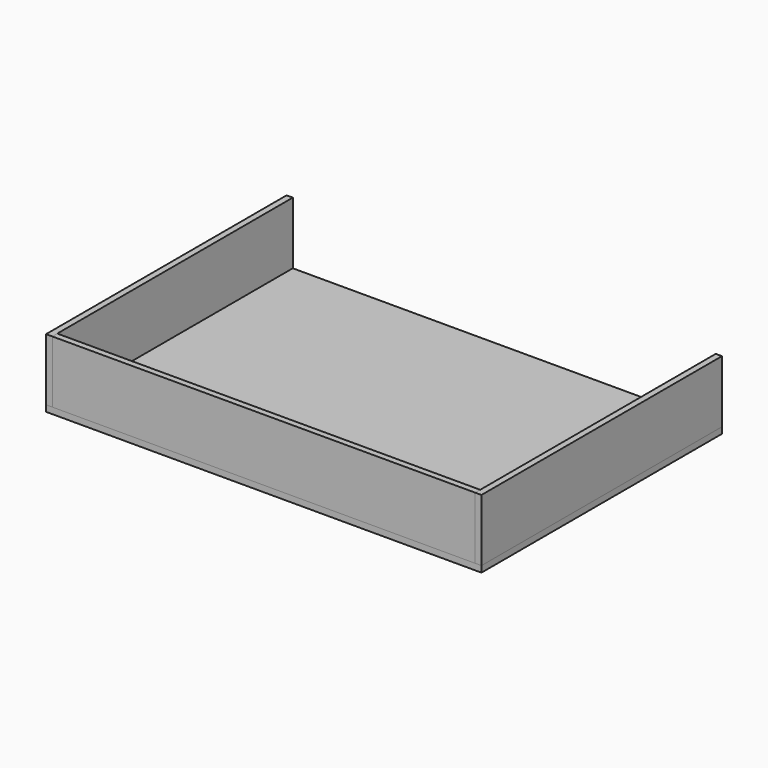
from build123d import *

# Parameters (mm, degrees)
F0_W     = 15
F0_H     = 710
F0_H_2   = 15
F3_DEPTH = 150
F0_W_2   = 1020
F1_DEPTH = 150
F2_DEPTH = 150
F4_DEPTH = 15


with BuildPart() as f3:
    # F0 (on Top) → F3 (new body)
    with BuildSketch(Plane.XY):
        with Locations((-517.5, 7.5)):
            Rectangle(F0_W, F0_H)
        with Locations((-517.5, -355)):
            Rectangle(F0_W, F0_H_2)
    extrude(amount=F3_DEPTH)


with BuildPart() as f1:
    # F0 (on Top) → F1 (new body)
    with BuildSketch(Plane.XY):
        with Locations((0, -355)):
            Rectangle(F0_W_2, F0_H_2)
    extrude(amount=F1_DEPTH)


with BuildPart() as f2:
    # F0 (on Top) → F2 (new body)
    with BuildSketch(Plane.XY):
        with Locations((517.5, 7.5)):
            Rectangle(F0_W, F0_H)
        with Locations((517.5, -355)):
            Rectangle(F0_W, F0_H_2)
    extrude(amount=F2_DEPTH)


with BuildPart() as f4:
    # F0 (on Top) → F4 (new body)
    with BuildSketch(Plane.XY):
        with Locations((0, 7.5)):
            Rectangle(F0_W_2, F0_H)
        with Locations((-517.5, 7.5)):
            Rectangle(F0_W, F0_H)
        with Locations((0, -355)):
            Rectangle(F0_W_2, F0_H_2)
        with Locations((-517.5, -355)):
            Rectangle(F0_W, F0_H_2)
        with Locations((0, -355)):
            Rectangle(F0_W_2, F0_H_2)
        with Locations((517.5, 7.5)):
            Rectangle(F0_W, F0_H)
        with Locations((517.5, -355)):
            Rectangle(F0_W, F0_H_2)
    extrude(amount=-F4_DEPTH)


solid = Compound([f3.part, f1.part, f2.part, f4.part])
